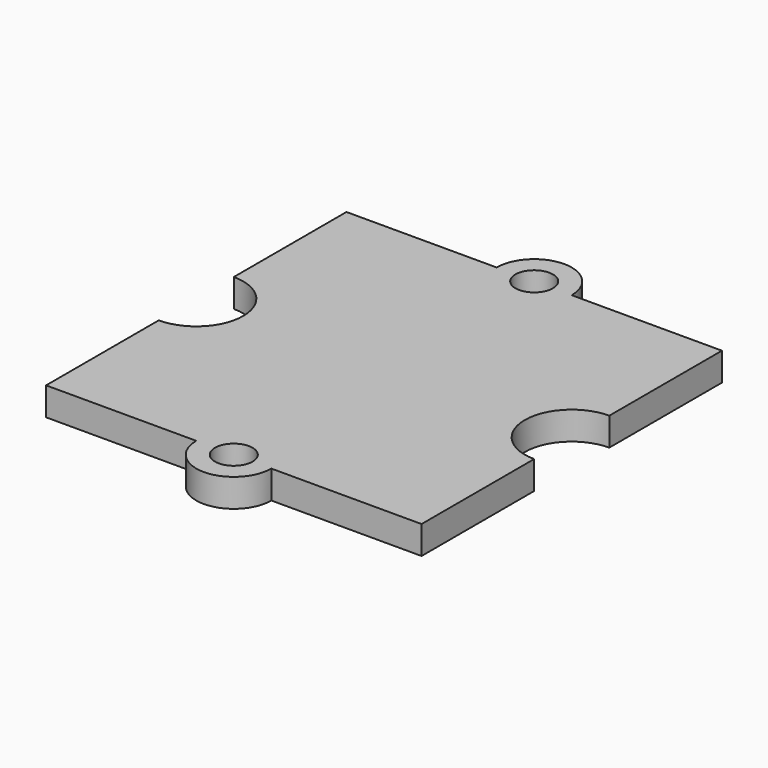
from build123d import *

# Parameters (mm, degrees)
BOX_W           = 20
BOX_H           = 20
BOX_DEPTH       = 1.5
SKETCH_R        = 2
PAD_DEPTH       = 1.5
SKETCH001_R     = 1
POCKET_DEPTH    = 5
SKETCH002_R     = 2.5
POCKET001_DEPTH = 5


with BuildPart() as part:
    # Box → Box (new body)
    with BuildSketch(Plane.XY):
        with Locations((10, 10)):
            Rectangle(BOX_W, BOX_H)
    extrude(amount=BOX_DEPTH)

    # Sketch → Pad (new body)
    with BuildSketch(Plane.XY.offset(1.5)):
        with Locations((10, 20)):
            Circle(SKETCH_R)
        with Locations((10, 0)):
            Circle(SKETCH_R)
    extrude(amount=-PAD_DEPTH)

    # Sketch001 → Pocket (cut)
    with BuildSketch(Plane.XY.offset(1.5)):
        with Locations((10, 20)):
            Circle(SKETCH001_R)
        with Locations((10, 0)):
            Circle(SKETCH001_R)
    extrude(amount=-POCKET_DEPTH, mode=Mode.SUBTRACT)

    # Sketch002 → Pocket001 (cut)
    with BuildSketch(Plane.XY.offset(1.5)):
        with Locations((0, 10)):
            Circle(SKETCH002_R)
        with Locations((20, 10)):
            Circle(SKETCH002_R)
    extrude(amount=-POCKET001_DEPTH, mode=Mode.SUBTRACT)


solid = part.part
